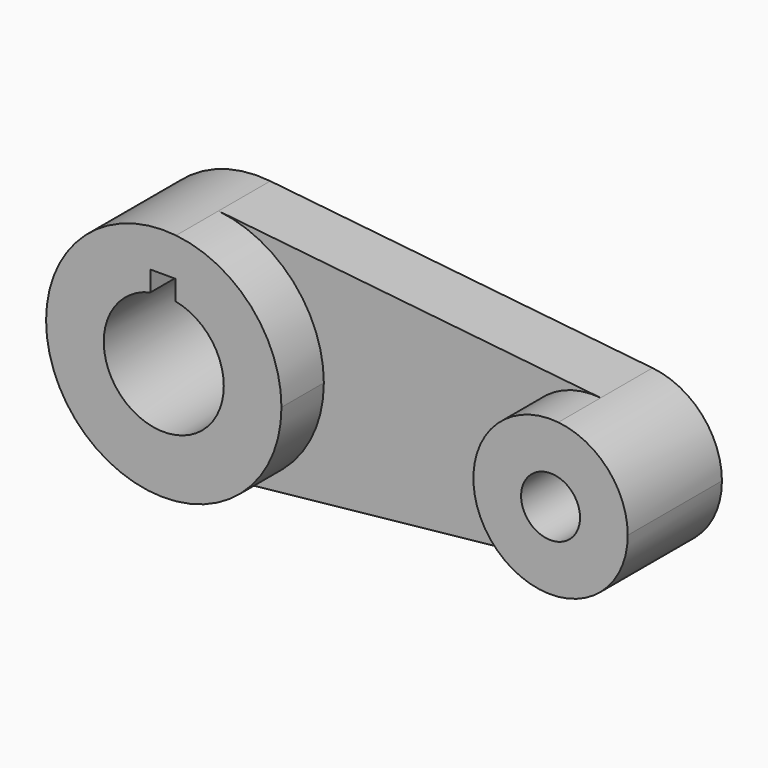
from build123d import *

# Parameters (mm, degrees)
F1_DEPTH = 25.4
F0_R     = 6.357837
F2_DEPTH = 25.4
F3_DEPTH = 13.97


with BuildPart() as f1:
    # F0 (on Front) → F1 (new body)
    with BuildSketch(Plane.XZ):
        with BuildLine():
            ThreePointArc((-47.418824, -25.255869), (-31.204047, -16.991101), (-24.682706, 0))
            ThreePointArc((-24.682706, 0), (-31.204047, 16.991101), (-47.418824, 25.255869))
            ThreePointArc((-47.418824, 25.255869), (-75.473698, 0), (-47.418824, -25.255869))
        make_face()
        with BuildLine():
            ThreePointArc((-47.543671, 12.700838), (-40.0642, 8.213092), (-37.126943, 0))
            ThreePointArc((-37.126943, 0), (-58.154731, -10.124466), (-52.956261, 12.627427))
            Line((-52.956261, 12.627427), (-52.956261, 16.98054))
            Line((-52.956261, 16.98054), (-47.543671, 16.98054))
            Line((-47.543671, 16.98054), (-47.543671, 12.700838))
        make_face(mode=Mode.SUBTRACT)
    extrude(amount=F1_DEPTH)


with BuildPart() as f2:
    # F0 (on Front) → F2 (new body)
    with BuildSketch(Plane.XZ):
        with BuildLine():
            ThreePointArc((50.040947, 0), (45.738664, 11.17155), (35.054463, 16.571643))
            ThreePointArc((35.054463, 16.571643), (16.729994, 0), (35.054463, -16.571643))
            ThreePointArc((35.054463, -16.571643), (45.738664, -11.17155), (50.040947, 0))
        make_face()
        with Locations((33.385471, 0)):
            Circle(F0_R, mode=Mode.SUBTRACT)
    extrude(amount=F2_DEPTH)


with BuildPart() as f3:
    # F0 (on Front) → F3 (new body)
    with BuildSketch(Plane.XZ):
        with BuildLine():
            ThreePointArc((-47.418824, 25.255869), (-31.204047, 16.991101), (-24.682706, 0))
            ThreePointArc((-24.682706, 0), (-31.204047, -16.991101), (-47.418824, -25.255869))
            Line((-47.418824, -25.255869), (35.054463, -16.571643))
            ThreePointArc((35.054463, -16.571643), (16.729994, 0), (35.054463, 16.571643))
            Line((35.054463, 16.571643), (-47.418824, 25.255869))
        make_face()
    extrude(amount=F3_DEPTH)


solid = Compound([f1.part, f2.part, f3.part])
